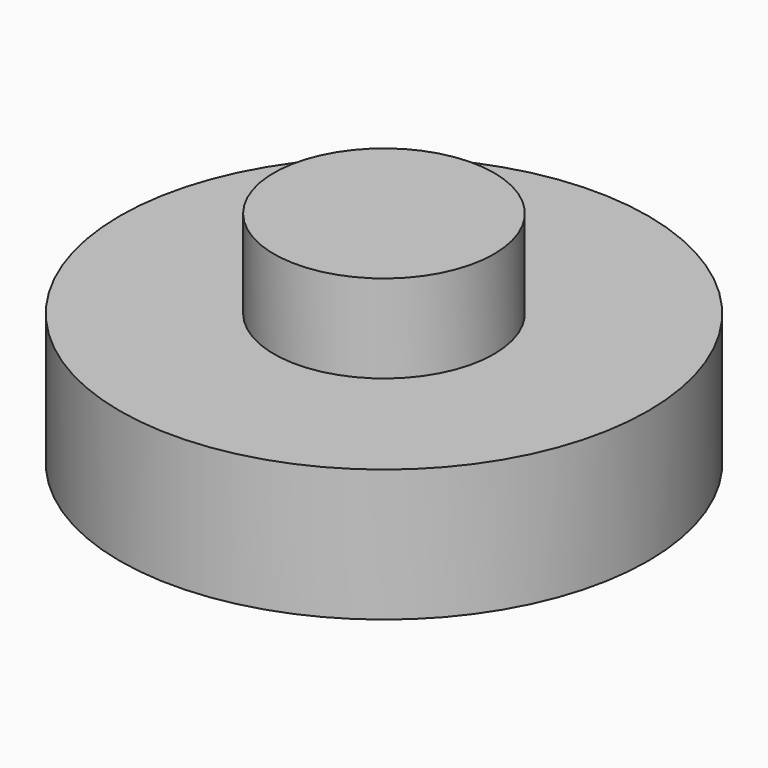
from build123d import *


with BuildPart() as f1:
    # F0 (on Front) → F1 (revolve)
    with BuildSketch(Plane.XZ):
        Polygon((-63.5, 63.5), (-95.25, 63.5), (-95.25, 0), (-19.05, 0), (-19.05, 38.1), (-63.5, 38.1), align=None)
        Polygon((-63.5, 63.5), (-95.25, 63.5), (-95.25, 0), (-19.05, 0), (-19.05, 38.1), (-63.5, 38.1), align=None)
    revolve(axis=Axis((-95.25, 0, 31.75), (0, 0, -1)))


solid = f1.part
